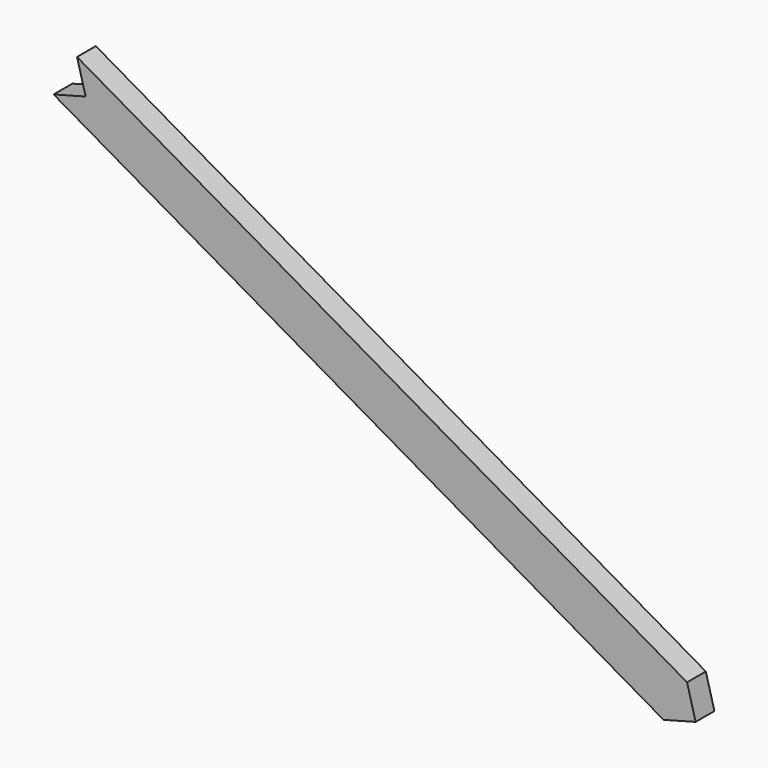
from build123d import *

# Parameters (mm, degrees)
F1_DEPTH = 3.175


with BuildPart() as f1:
    # F0 (on Front) → F1 (new body, symmetric)
    with BuildSketch(Plane.XZ):
        Polygon((21.252101, -4.937558), (180.730679, -97.012558), (183.905679, -91.513296), (18.927839, 3.736704), align=None)
        Polygon((12.577839, -7.261819), (177.555679, -102.511819), (180.730679, -97.012558), (21.252101, -4.937558), align=None)
        Polygon((180.730679, -97.012558), (186.22994, -100.187558), (183.905679, -91.513296), align=None)
        Polygon((180.730679, -97.012558), (177.555679, -102.511819), (186.22994, -100.187558), align=None)
    extrude(amount=F1_DEPTH, both=True)


solid = f1.part
